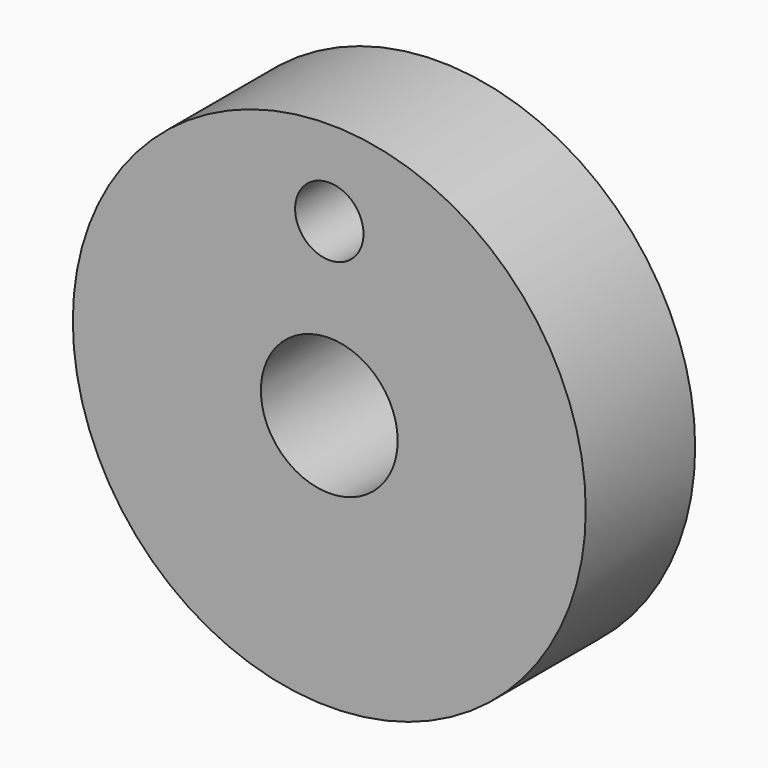
from build123d import *

# Parameters (mm, degrees)
F0_R     = 37.5
F0_R_2   = 10
F0_R_3   = 5
F1_DEPTH = 20


with BuildPart() as f1:
    # F0 (on Front) → F1 (new body)
    with BuildSketch(Plane.XZ):
        Circle(F0_R)
        Circle(F0_R_2, mode=Mode.SUBTRACT)
        with Locations((0, 25)):
            Circle(F0_R_3, mode=Mode.SUBTRACT)
    extrude(amount=F1_DEPTH)


solid = f1.part
